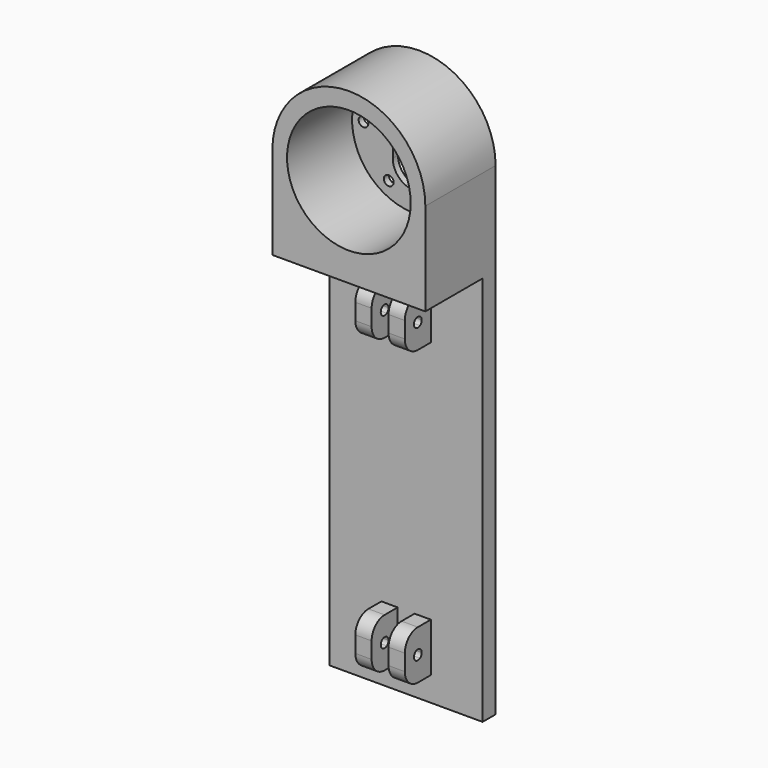
from build123d import *

# Parameters (mm, degrees)
F1_DEPTH  = 2
F2_R      = 1.5
F3_DEPTH  = 5
F4_R      = 19
F5_DEPTH  = 27
F6_W      = 47
F6_H      = 27
F7_DEPTH  = 5
F8_W      = 47
F8_H      = 5
F9_DEPTH  = 120
F11_DEPTH = 10
F13_DEPTH = 25
F15_DEPTH = 25
F16_R     = 5


with BuildPart() as f1:
    # F0 (on Front) → F1 (new body)
    with BuildSketch(Plane.XZ):
        with BuildLine():
            Line((-23.5, -23.5), (0, -23.5))
            Line((0, -23.5), (23.5, -23.5))
            Line((23.5, -23.5), (23.5, 0))
            ThreePointArc((23.5, 0), (0, 23.5), (-23.5, 0))
            Line((-23.5, 0), (-23.5, -23.5))
        make_face()
    extrude(amount=F1_DEPTH)

    # F2 (on face) → F3 (cut)
    with BuildSketch(Plane.XZ.offset(2)):
        with Locations((15.5, 0)):
            Circle(F2_R)
        with Locations((7.75, 13.423394)):
            Circle(F2_R)
        with Locations((-7.75, 13.423394)):
            Circle(F2_R)
        with Locations((-15.5, 0)):
            Circle(F2_R)
        with Locations((-7.75, -13.423394)):
            Circle(F2_R)
        with Locations((7.75, -13.423394)):
            Circle(F2_R)
        with BuildLine():
            Line((6.5, -7), (6.5, 7))
            ThreePointArc((6.5, 7), (0, 13.5), (-6.5, 7))
            Line((-6.5, 7), (-6.5, -7))
            ThreePointArc((-6.5, -7), (0, -13.5), (6.5, -7))
        make_face()
    extrude(amount=-F3_DEPTH, mode=Mode.SUBTRACT)

    # F4 (on Front) → F5 (join)
    with BuildSketch(Plane.XZ):
        with BuildLine():
            ThreePointArc((23.5, 0), (0, 23.5), (-23.5, 0))
            Line((-23.5, 0), (-23.5, -23.5))
            Line((-23.5, -23.5), (23.5, -23.5))
            Line((23.5, -23.5), (23.5, 0))
        make_face()
        with Locations((0, -0.678439)):
            Circle(F4_R, mode=Mode.SUBTRACT)
    extrude(amount=F5_DEPTH)

    # F6 (on face) → F7 (join)
    with BuildSketch(Plane(origin=(0, 0, -23.5), x_dir=(1, 0, 0), z_dir=(0, 0, -1))):
        with Locations((0, 13.5)):
            Rectangle(F6_W, F6_H)
    extrude(amount=F7_DEPTH)

    # F8 (on face) → F9 (join)
    with BuildSketch(Plane(origin=(0, 0, -28.5), x_dir=(1, 0, 0), z_dir=(0, 0, -1))):
        with Locations((0, 2.5)):
            Rectangle(F8_W, F8_H)
    extrude(amount=F9_DEPTH)

    # F10 (on face) → F11 (join)
    with BuildSketch(Plane.XZ.offset(5)):
        Polygon((-2.6, -51), (-2.6, -43.5), (-2.6, -36), (-7.6, -36), (-7.6, -51), align=None)
        Polygon((2.6, -126), (2.6, -133.5), (2.6, -141), (7.6, -141), (7.6, -126), align=None)
        Polygon((2.6, -36), (2.6, -43.5), (2.6, -51), (7.6, -51), (7.6, -36), align=None)
        Polygon((-2.6, -141), (-2.6, -133.5), (-2.6, -126), (-7.6, -126), (-7.6, -141), align=None)
    extrude(amount=F11_DEPTH)

    # F12 (on face) → F13 (cut)
    with BuildSketch(Plane.YZ.offset(7.6)):
        with BuildLine():
            ThreePointArc((-9.16795, -42.251925), (-10, -42), (-10.83205, -42.251925))
            Line((-10.83205, -42.251925), (-10, -43.5))
            Line((-10, -43.5), (-9.16795, -42.251925))
        make_face()
        with BuildLine():
            Line((-10, -43.5), (-10.83205, -42.251925))
            ThreePointArc((-10.83205, -42.251925), (-11.5, -43.5), (-10.83205, -44.748075))
            Line((-10.83205, -44.748075), (-10, -43.5))
        make_face()
        with BuildLine():
            Line((-9.16795, -42.251925), (-10, -43.5))
            Line((-10, -43.5), (-9.16795, -44.748075))
            ThreePointArc((-9.16795, -44.748075), (-8.677488, -44.207787), (-8.5, -43.5))
            ThreePointArc((-8.5, -43.5), (-8.677488, -42.792213), (-9.16795, -42.251925))
        make_face()
        with BuildLine():
            Line((-9.16795, -44.748075), (-10, -43.5))
            Line((-10, -43.5), (-10.83205, -44.748075))
            ThreePointArc((-10.83205, -44.748075), (-10, -45), (-9.16795, -44.748075))
        make_face()
    extrude(amount=-F13_DEPTH, mode=Mode.SUBTRACT)

    # F14 (on face) → F15 (cut)
    with BuildSketch(Plane.YZ.offset(7.6)):
        with BuildLine():
            ThreePointArc((-9.16795, -132.251925), (-10, -132), (-10.83205, -132.251925))
            Line((-10.83205, -132.251925), (-10, -133.5))
            Line((-10, -133.5), (-9.16795, -132.251925))
        make_face()
        with BuildLine():
            Line((-10, -133.5), (-10.83205, -132.251925))
            ThreePointArc((-10.83205, -132.251925), (-11.5, -133.5), (-10.83205, -134.748075))
            Line((-10.83205, -134.748075), (-10, -133.5))
        make_face()
        with BuildLine():
            Line((-9.16795, -132.251925), (-10, -133.5))
            Line((-10, -133.5), (-9.16795, -134.748075))
            ThreePointArc((-9.16795, -134.748075), (-8.677488, -134.207787), (-8.5, -133.5))
            ThreePointArc((-8.5, -133.5), (-8.677488, -132.792213), (-9.16795, -132.251925))
        make_face()
        with BuildLine():
            Line((-9.16795, -134.748075), (-10, -133.5))
            Line((-10, -133.5), (-10.83205, -134.748075))
            ThreePointArc((-10.83205, -134.748075), (-10, -135), (-9.16795, -134.748075))
        make_face()
    extrude(amount=-F15_DEPTH, mode=Mode.SUBTRACT)

    # F16
    f16_edges = [f1.edges().sort_by_distance(p)[0] for p in [
        (5.1, -15, -141),
        (5.1, -15, -126),
        (-5.1, -15, -126),
        (-5.1, -15, -141),
        (5.1, -15, -51),
        (5.1, -15, -36),
        (-5.1, -15, -36),
        (-5.1, -15, -51),
    ]]
    fillet(f16_edges, radius=F16_R)


solid = f1.part
